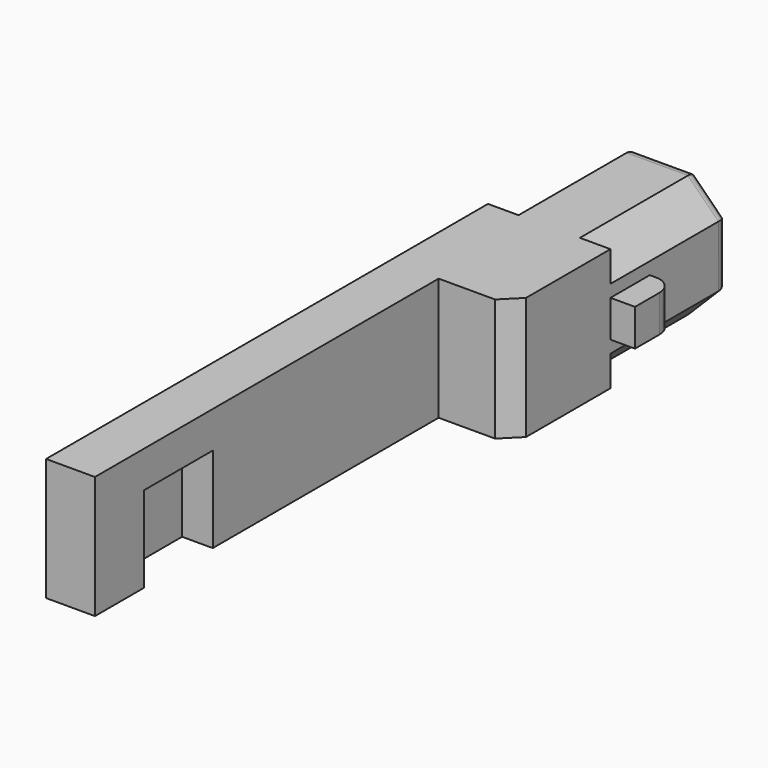
from build123d import *

# Parameters (mm, degrees)
SKETCH_W        = 9.98
SKETCH_H        = 9.98
PAD_DEPTH       = 45
SKETCH001_W     = 7
SKETCH001_H     = 7
POCKET_DEPTH    = 8.5
PAD001_DEPTH    = 12
FILLET_R        = 1
SKETCH004_W     = 35
SKETCH004_H     = 9.98
POCKET002_DEPTH = 6
CHAMFER_SIZE    = 1.4
PAD002_DEPTH    = 4
FILLET001_R     = 1.5


with BuildPart() as part:
    # Sketch → Pad (new body)
    with BuildSketch(Plane.XZ):
        Rectangle(SKETCH_W, SKETCH_H)
    extrude(amount=PAD_DEPTH)

    # Sketch001 (on Face3 of Pad) → Pocket (cut)
    with BuildSketch(Plane.YZ.offset(4.99)):
        with Locations((-36.5, -1.49)):
            Rectangle(SKETCH001_W, SKETCH001_H)
    extrude(amount=-POCKET_DEPTH, mode=Mode.SUBTRACT)

    # Sketch002 (on Face4 of Pocket) → Pad001 (join)
    with BuildSketch(Plane(origin=(0, 0, 0), x_dir=(-1, 0, 0), z_dir=(0, 1, 0))):
        Polygon((-4.99, 2.5), (-2.5, 4.99), (2.5, 4.99), (4.99, 2.5), (4.99, -2.5), (2.5, -4.99), (-2.5, -4.99), (-4.99, -2.5), align=None)
    extrude(amount=PAD001_DEPTH)

    # Fillet
    fillet_edges = [part.edges().sort_by_distance(p)[0] for p in [
        (3.745, 12, 3.745),
        (0, 12, 4.99),
        (-3.745, 12, 3.745),
        (-4.99, 12, 0),
        (-3.745, 12, -3.745),
        (0, 12, -4.99),
        (3.745, 12, -3.745),
        (4.99, 12, 0),
    ]]
    fillet(fillet_edges, radius=FILLET_R)

    # Sketch004 → Pocket002 (cut)
    with BuildSketch(Plane.YZ.offset(4.99)):
        with Locations((-27.5, 0)):
            Rectangle(SKETCH004_W, SKETCH004_H)
    extrude(amount=-POCKET002_DEPTH, mode=Mode.SUBTRACT)

    # Chamfer
    chamfer_edges = [part.edges().sort_by_distance(p)[0] for p in [
        (4.99, -10, 0),
    ]]
    chamfer(chamfer_edges, length=CHAMFER_SIZE)

    # Sketch005 → Pad002 (join)
    with BuildSketch(Plane.XZ):
        Polygon((4.99, 1.5), (6.99, 1.5), (6.99, -1.5), (4.99, -1.5), (4.99, 0), align=None)
    extrude(amount=-PAD002_DEPTH)

    # Fillet001
    fillet001_edges = [part.edges().sort_by_distance(p)[0] for p in [
        (6.99, 4, 0),
    ]]
    fillet(fillet001_edges, radius=FILLET001_R)


solid = part.part
